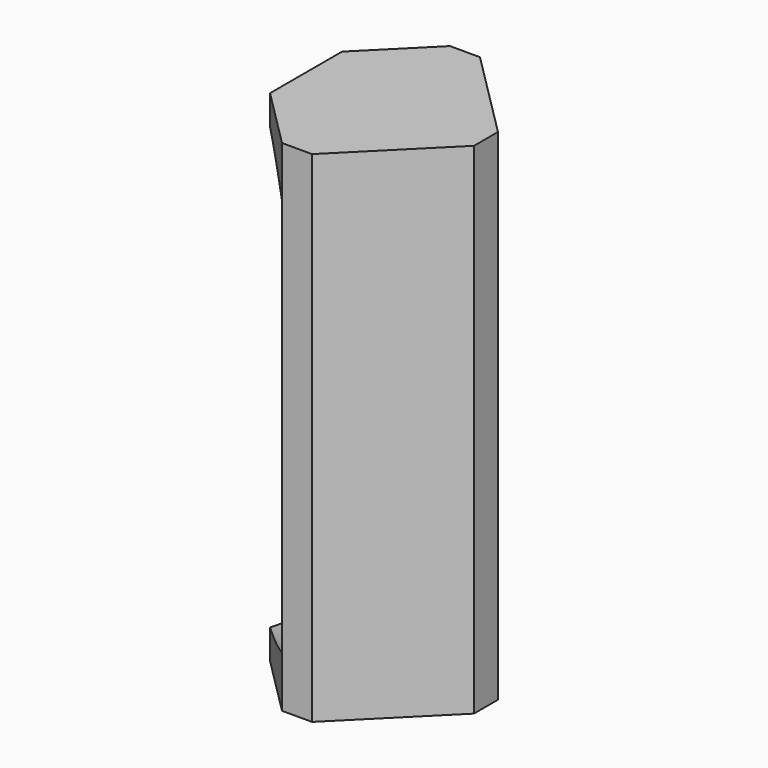
from build123d import *

# Parameters (mm, degrees)
PAD_DEPTH   = 100
SKETCH001_R = 45
HOLE_DEPTH  = 12


with BuildPart() as part:
    # Sketch → Pad (new body)
    with BuildSketch(Plane.XY):
        Polygon((-18, 9), (-18, -9), (-6, -21), (0, -21), (18, -3), (18, 3), (0, 21), (-6, 21), align=None)
    extrude(amount=-PAD_DEPTH)

    # Sketch001 (on Face1 of Pad) → Hole (cut)
    with BuildSketch(Plane(origin=(-18, 0, 0), x_dir=(0, -1, 0), z_dir=(-1, 0, 0))):
        with Locations((0, -50)):
            Circle(SKETCH001_R)
    extrude(amount=-HOLE_DEPTH, mode=Mode.SUBTRACT)


solid = part.part
